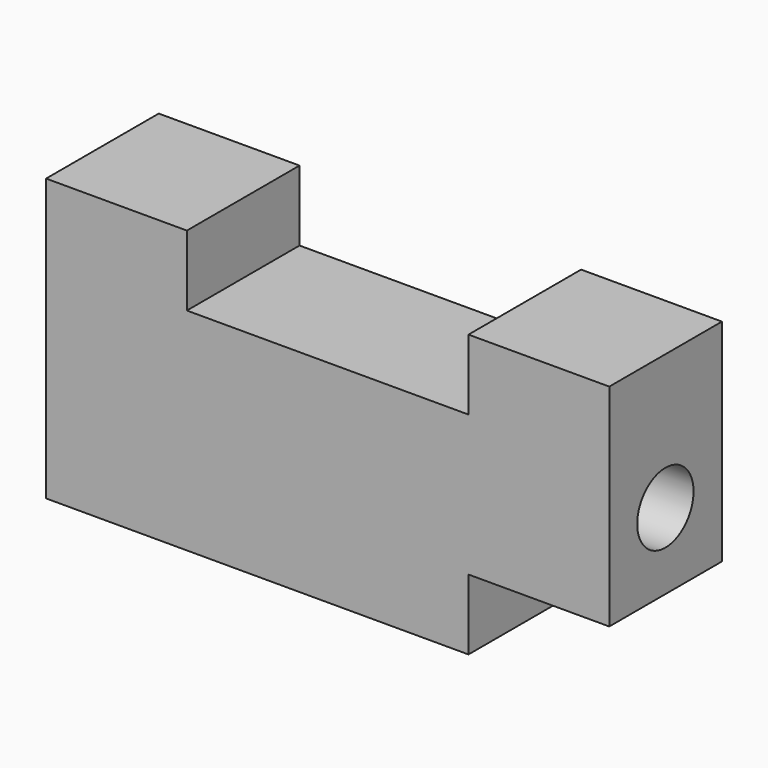
from build123d import *

# Parameters (mm, degrees)
F0_W     = 101.6
F0_H     = 50.8
F1_DEPTH = 25.4
F2_W     = 25.4
F2_H     = 12.7
F3_DEPTH = 25.401
F4_R     = 6.35
F5_DEPTH = 101.601
F6_W     = 50.8
F6_H     = 12.7
F7_DEPTH = 25.401


with BuildPart() as f1:
    # F0 (on Front) → F1 (new body)
    with BuildSketch(Plane.XZ):
        Rectangle(F0_W, F0_H)
    extrude(amount=F1_DEPTH)

    # F2 (on face) → F3 (cut, through all)
    with BuildSketch(Plane.XZ.offset(25.4)):
        with Locations((38.1, -19.05)):
            Rectangle(F2_W, F2_H)
    extrude(amount=-F3_DEPTH, mode=Mode.SUBTRACT)

    # F4 (on face) → F5 (cut, through all)
    with BuildSketch(Plane.YZ.offset(50.8)):
        with Locations((-12.748572, 1.024565)):
            Circle(F4_R)
    extrude(amount=-F5_DEPTH, mode=Mode.SUBTRACT)

    # F6 (on face) → F7 (cut, through all)
    with BuildSketch(Plane.XZ.offset(25.4)):
        with Locations((0, 19.05)):
            Rectangle(F6_W, F6_H)
    extrude(amount=-F7_DEPTH, mode=Mode.SUBTRACT)


solid = f1.part
